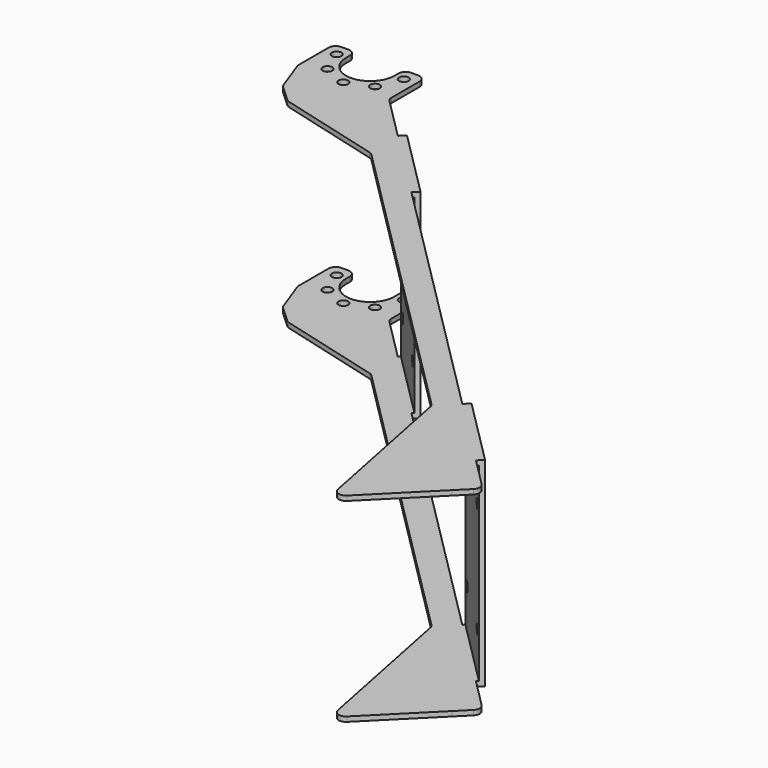
from build123d import *

# Parameters (mm, degrees)
F0_R          = 1
F1_DEPTH      = 1
F2_R          = 1.5
F3_SIZE       = 3
F4_R          = 1.5
F6_DEPTH      = 19.75
F6_DEPTH_BACK = 1
F9_R          = 1
F10_DEPTH     = 1.5
F11_W         = 20
F11_H         = 39.5
F11_R         = 1
F12_DEPTH     = 0.5


with BuildPart() as f1:
    # F0 (on Top) → F1 (new body)
    with BuildSketch(Plane.XY):
        with BuildLine():
            ThreePointArc((5.05, 0), (0, -5.05), (-5.05, 0))
            Line((-5.05, 0), (-5.05, 2.5))
            Line((-5.05, 2.5), (-9.5, 2.5))
            Line((-9.5, 2.5), (-9.5, 0))
            Line((-9.5, 0), (-9.5, -7))
            Line((-9.5, -7), (-5.853407529, -17.0189304721))
            Line((-5.853407529, -17.0189304721), (19.146592471, -23.7176602829))
            Line((19.146592471, -23.7176602829), (82.3319984622, -86.9030662741))
            Line((82.3319984622, -86.9030662741), (103.5452018978, -108.1162697097))
            Line((103.5452018978, -108.1162697097), (107.0807358037, -104.5807358037))
            Line((107.0807358037, -104.5807358037), (9.5, -7))
            Line((9.5, -7), (9.5, 0))
            Line((9.5, 0), (9.5, 2.5))
            Line((9.5, 2.5), (5.05, 2.5))
            Line((5.05, 2.5), (5.05, 0))
        make_face()
        with Locations((0, -7)):
            Circle(F0_R, mode=Mode.SUBTRACT)
        with Locations((-4.9497474683, -4.9497474683)):
            Circle(F0_R, mode=Mode.SUBTRACT)
        with Locations((-7, 0)):
            Circle(F0_R, mode=Mode.SUBTRACT)
        with Locations((4.9497474683, -4.9497474683)):
            Circle(F0_R, mode=Mode.SUBTRACT)
        with Locations((7, 0)):
            Circle(F0_R, mode=Mode.SUBTRACT)
        Polygon((89.4030662741, -122.2584053334), (103.5452018978, -108.1162697097), (82.3319984622, -86.9030662741), align=None)
    extrude(amount=F1_DEPTH)

    # F2
    f2_edges = [f1.edges().sort_by_distance(p)[0] for p in [
        (89.403066, -122.258405, 0.5),
        (82.331998, -86.903066, 0.5),
        (107.080736, -104.580736, 0.5),
        (19.146592, -23.71766, 0.5),
        (9.5, -7, 0.5),
        (9.5, 2.5, 0.5),
        (-5.05, 2.5, 0.5),
        (5.05, 2.5, 0.5),
        (-9.5, 2.5, 0.5),
        (-9.5, -7, 0.5),
    ]]
    fillet(f2_edges, radius=F2_R)

    # F3
    f3_edges = [f1.edges().sort_by_distance(p)[0] for p in [
        (-5.853408, -17.01893, 0.5),
    ]]
    chamfer(f3_edges, length=F3_SIZE)

    # F4
    f4_edges = [f1.edges().sort_by_distance(p)[0] for p in [
        (-6.879468, -14.199853, 0.5),
        (-2.95563, -17.795388, 0.5),
    ]]
    fillet(f4_edges, radius=F4_R)

    # F5 (on face) → F6 (join, two sides)
    with BuildSketch(Plane.XY.offset(1)) as f6_sk:
        Polygon((19.7530483272, -15.1317279836), (18.6923881554, -16.1923881554), (32.8345237792, -30.3345237792), (33.8951839509, -29.2738636074), align=None)
        Polygon((85.8675323681, -83.3675323681), (100.0096679919, -97.5096679919), (101.0703281637, -96.4490078201), (86.9281925399, -82.3068721964), align=None)
    extrude(amount=F6_DEPTH)
    extrude(f6_sk.sketch, amount=-F6_DEPTH_BACK)

    # F8: F1 across plane


with BuildPart() as f1_1:
    add(f1.part)
    add(f1.part.mirror(Plane(origin=(26.2937860532, -22.7331258814, 20.75), x_dir=(1, 0, 0), z_dir=(0, 0, 1))))

    # F9 (on face) → F10 (cut, through all)
    with BuildSketch(Plane(origin=(2.3106601718, 2.3106601718, 0), x_dir=(-0.7071067812, 0.7071067812, 0), z_dir=(0.7071067812, 0.7071067812, 0))):
        with Locations((-27.1672618896, 32.25)):
            Circle(F9_R)
        with Locations((-27.1672618896, 9.25)):
            Circle(F9_R)
        with Locations((-42.1672618896, 32.25)):
            Circle(F9_R)
        with Locations((-42.1672618896, 9.25)):
            Circle(F9_R)
        with Locations((-137.1672618896, 32.25)):
            Circle(F9_R)
        with Locations((-137.1672618896, 9.25)):
            Circle(F9_R)
        with Locations((-122.1672618896, 9.25)):
            Circle(F9_R)
        with Locations((-122.1672618896, 32.25)):
            Circle(F9_R)
    extrude(amount=-F10_DEPTH, mode=Mode.SUBTRACT)

    # F11 (on face) → F12 (cut)
    with BuildSketch(Plane(origin=(1.25, 1.25, 0), x_dir=(0.7071067812, -0.7071067812, 0), z_dir=(-0.7071067812, -0.7071067812, 0))):
        with Locations((34.6672618896, 20.75)):
            Rectangle(F11_W, F11_H)
        with Locations((27.1672618898, 9.25)):
            Circle(F11_R, mode=Mode.SUBTRACT)
        with Locations((42.1672618897, 9.25)):
            Circle(F11_R, mode=Mode.SUBTRACT)
        with Locations((27.1672618898, 32.25)):
            Circle(F11_R, mode=Mode.SUBTRACT)
        with Locations((42.1672618897, 32.25)):
            Circle(F11_R, mode=Mode.SUBTRACT)
        with Locations((129.6672618896, 20.75)):
            Rectangle(F11_W, F11_H)
        with Locations((122.1672618897, 9.25)):
            Circle(F11_R, mode=Mode.SUBTRACT)
        with Locations((137.1672618897, 9.25)):
            Circle(F11_R, mode=Mode.SUBTRACT)
        with Locations((122.1672618897, 32.25)):
            Circle(F11_R, mode=Mode.SUBTRACT)
        with Locations((137.1672618897, 32.25)):
            Circle(F11_R, mode=Mode.SUBTRACT)
    extrude(amount=-F12_DEPTH, mode=Mode.SUBTRACT)


solid = f1_1.part
